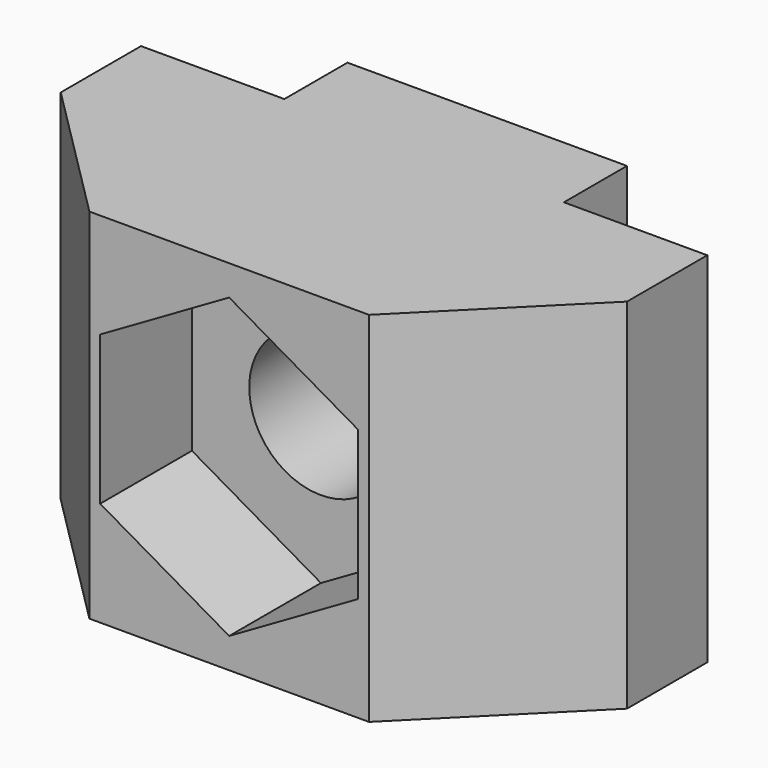
from build123d import *

# Parameters (mm, degrees)
PAD_DEPTH       = 10
POCKET_DEPTH    = 3.2
SKETCH002_R     = 2
POCKET001_DEPTH = 9.001


with BuildPart() as part:
    # Sketch → Pad (new body)
    with BuildSketch(Plane.XY):
        Polygon((0, 0), (0, -2.8), (4, -6.8), (11.8, -6.8), (15.8, -2.8), (15.8, 0), (11.8, 0), (11.8, 2.2), (4, 2.2), (4, 0), align=None)
    extrude(amount=PAD_DEPTH)

    # Sketch001 (on DatumPlane) → Pocket (cut)
    with BuildSketch(Plane.XZ.offset(6.8)):
        Polygon((11.5, 7.078461), (7.9, 9.156922), (4.3, 7.078461), (4.3, 2.921539), (7.9, 0.843078), (11.5, 2.921539), align=None)
    extrude(amount=-POCKET_DEPTH, mode=Mode.SUBTRACT)

    # Sketch002 (on DatumPlane) → Pocket001 (cut, through all)
    with BuildSketch(Plane.XZ.offset(6.8)):
        with Locations((7.9, 5)):
            Circle(SKETCH002_R)
    extrude(amount=-POCKET001_DEPTH, mode=Mode.SUBTRACT)


solid = part.part
